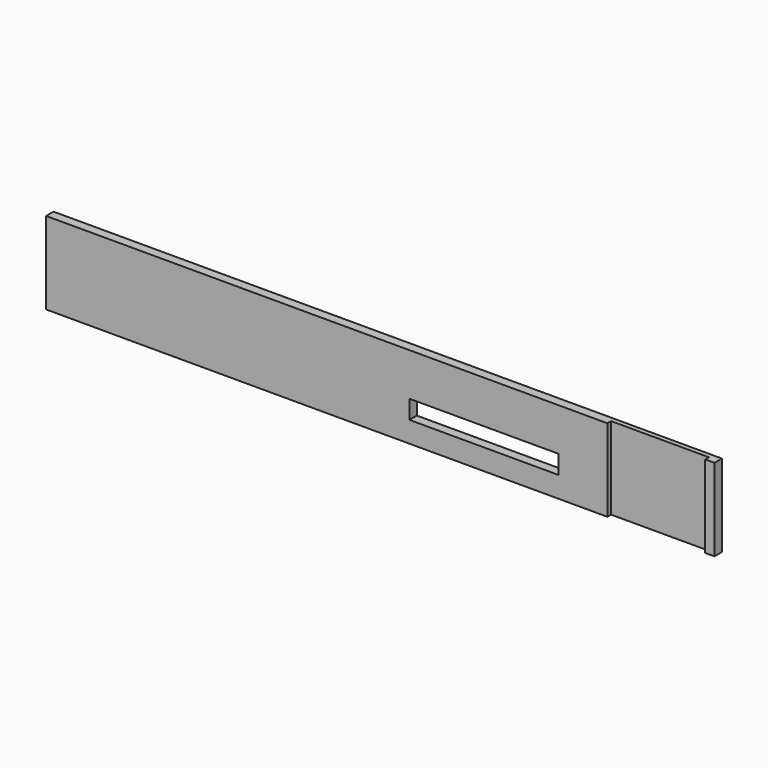
from build123d import *

# Parameters (mm, degrees)
EXTRUDE099_DEPTH = 21
SKETCH081_W      = 143.5
SKETCH081_H      = 17.68
SKETCH081_W_2    = 32
SKETCH081_H_2    = 4
EXTRUDE073_DEPTH = 2


with BuildPart() as body060:
    # Sketch109 → Extrude099 (new body)
    with BuildSketch(Plane(origin=(178.5, 0, 0), x_dir=(0, -1, 0), z_dir=(-1, 0, 0))):
        Polygon((-212.5, 6.32), (-204, 6.32), (-204, 5.32), (-211.5, 5.32), (-211.5, -25), (-212.5, -25), align=None)
    extrude(amount=EXTRUDE099_DEPTH)


with BuildPart() as cut012:
    # Sketch081 → Extrude073 (new body)
    with BuildSketch(Plane.XZ.offset(-211.5)):
        with Locations((108.75, -16.16)):
            Rectangle(SKETCH081_W, SKETCH081_H)
        with Locations((131, -18.5)):
            Rectangle(SKETCH081_W_2, SKETCH081_H_2, mode=Mode.SUBTRACT)
    extrude(amount=-EXTRUDE073_DEPTH)

    # Cut012: cut Body060
    add(body060.part, mode=Mode.SUBTRACT)


solid = cut012.part
